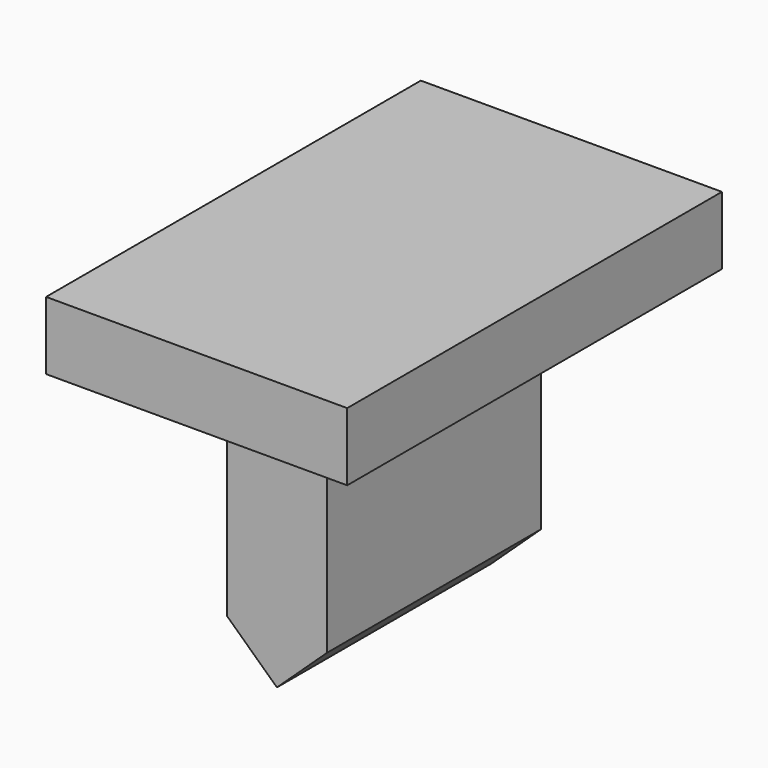
from build123d import *

# Parameters (mm, degrees)
F1_DEPTH = 25.4
F3_DEPTH = 34.925
F4_W     = 28.575
F4_H     = 6.45089
F5_DEPTH = 9.525


with BuildPart() as f1:
    # F0 (on Front) → F1 (new body)
    with BuildSketch(Plane.XZ):
        Polygon((9.525, 0), (0, 0), (0, -20.954376), (4.7625, -25.4), (9.525, -20.954376), align=None)
    extrude(amount=F1_DEPTH)

    # F2 (on face) → F3 (join)
    with BuildSketch(Plane(origin=(0, 0, 0), x_dir=(-1, 0, 0), z_dir=(0, 1, 0))):
        Polygon((-19.05, 6.45089), (-19.05, 0), (-9.525, 0), (0, 0), (9.525, 0), (9.525, 6.45089), align=None)
    extrude(amount=-F3_DEPTH)

    # F4 (on face) → F5 (join)
    with BuildSketch(Plane(origin=(0, 0, 0), x_dir=(-1, 0, 0), z_dir=(0, 1, 0))):
        with Locations((-4.7625, 3.225445)):
            Rectangle(F4_W, F4_H)
    extrude(amount=F5_DEPTH)


solid = f1.part
